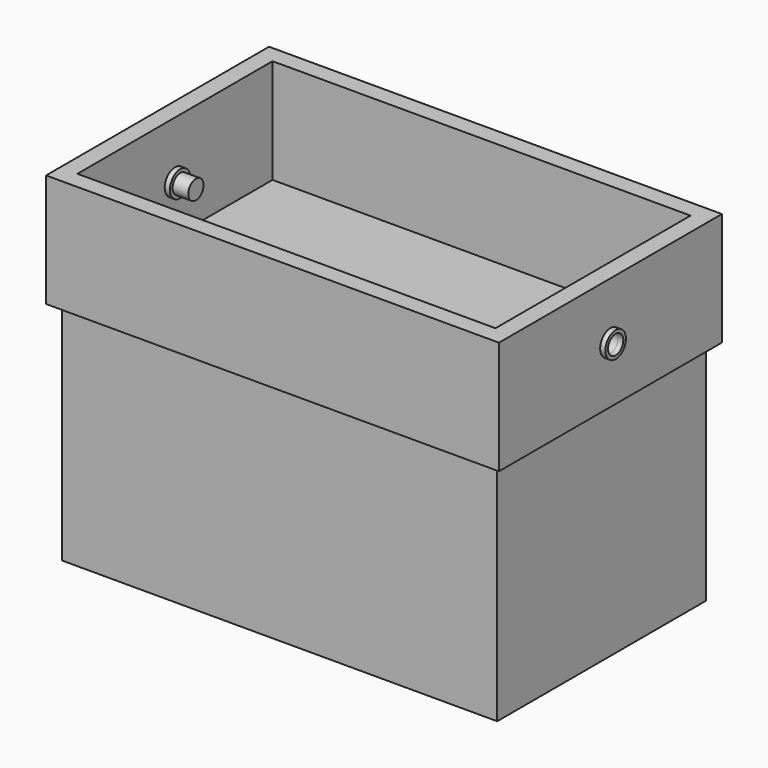
from build123d import *

# Parameters (mm, degrees)
F0_W      = 250
F0_H      = 150
F1_DEPTH  = 5
F2_W      = 250
F2_H      = 150
F2_W_2    = 240
F2_H_2    = 140
F3_DEPTH  = 125
F4_W      = 260
F4_H      = 160
F5_DEPTH  = 5
F6_W      = 260
F6_H      = 160
F6_W_2    = 240
F6_H_2    = 140
F7_DEPTH  = 60
F8_R      = 5.472412
F9_DEPTH  = 25
F10_R     = 7.356658
F10_R_2   = 5.472412
F11_DEPTH = 3
F12_R     = 7.356658
F12_R_2   = 5.472412
F13_DEPTH = 3
F15_R     = 5.472412
F16_DEPTH = 12


with BuildPart() as f1:
    # F0 (on Top) → F1 (new body)
    with BuildSketch(Plane.XY):
        Rectangle(F0_W, F0_H)
    extrude(amount=F1_DEPTH)

    # F2 (on face) → F3 (join)
    with BuildSketch(Plane.XY.offset(5)):
        Rectangle(F2_W, F2_H)
        Rectangle(F2_W_2, F2_H_2, mode=Mode.SUBTRACT)
    extrude(amount=F3_DEPTH)


with BuildPart() as f5:
    # F4 (on face) → F5 (new body)
    with BuildSketch(Plane.XY.offset(130)):
        Rectangle(F4_W, F4_H)
    extrude(amount=F5_DEPTH)

    # F6 (on face) → F7 (join)
    with BuildSketch(Plane.XY.offset(135)):
        Rectangle(F6_W, F6_H)
        Rectangle(F6_W_2, F6_H_2, mode=Mode.SUBTRACT)
    extrude(amount=F7_DEPTH)

    # F8 (on face) → F9 (cut)
    with BuildSketch(Plane.YZ.offset(130)):
        with Locations((0, 162.5)):
            Circle(F8_R)
    extrude(amount=-F9_DEPTH, mode=Mode.SUBTRACT)

    # F10 (on face) → F11 (join)
    with BuildSketch(Plane.YZ.offset(130)):
        with Locations((0, 162.5)):
            Circle(F10_R)
        with Locations((0, 162.5)):
            Circle(F10_R_2, mode=Mode.SUBTRACT)
    extrude(amount=F11_DEPTH)

    # F12 (on face) → F13 (join)
    with BuildSketch(Plane.YZ.offset(-120)):
        with Locations((0, 162.5)):
            Circle(F12_R)
        with Locations((0, 162.5)):
            Circle(F12_R_2, mode=Mode.SUBTRACT)
    extrude(amount=F13_DEPTH)


with BuildPart() as f16:
    # F15 (on face) → F16 (new body)
    with BuildSketch(Plane.YZ.offset(-120)):
        with Locations((0, 162.5)):
            Circle(F15_R)
    extrude(amount=F16_DEPTH)


solid = Compound([f1.part, f5.part, f16.part])
